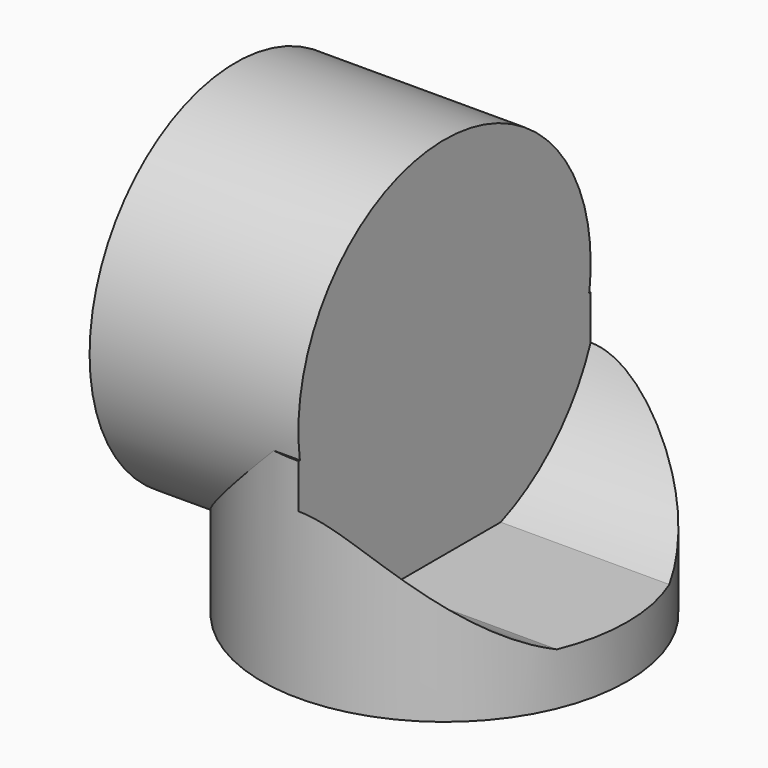
from build123d import *

# Parameters (mm, degrees)
SKETCH_R     = 35
PAD_DEPTH    = 30
SKETCH001_R  = 35
PAD001_DEPTH = 40
SKETCH002_R  = 37.5
POCKET_DEPTH = 35
PAD002_DEPTH = 10


with BuildPart() as part:
    # Sketch → Pad (new body)
    with BuildSketch(Plane.XY):
        Circle(SKETCH_R)
    extrude(amount=PAD_DEPTH)

    # Sketch001 → Pad001 (join)
    with BuildSketch(Plane.YZ):
        with Locations((0, 35)):
            Circle(SKETCH001_R)
    extrude(amount=-PAD001_DEPTH)

    # Sketch002 → Pocket (cut)
    with BuildSketch(Plane.YZ):
        with Locations((0, 35)):
            Circle(SKETCH002_R)
    extrude(amount=POCKET_DEPTH, mode=Mode.SUBTRACT)

    # Sketch → Pad002 (join)
    with BuildSketch(Plane.XY):
        Circle(SKETCH_R)
    extrude(amount=-PAD002_DEPTH)


solid = part.part
